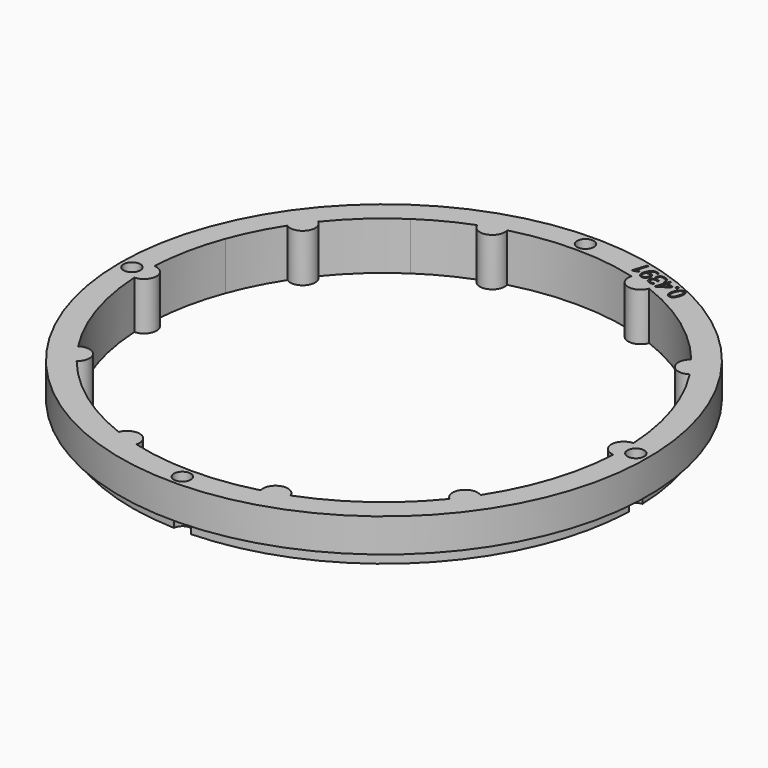
from build123d import *

# Parameters (mm, degrees)
SKETCH150_R             = 55
PAD057_DEPTH            = 10
POLARPATTERN017_COUNT   = 10
SKETCH151_R             = 55
SKETCH151_R_2           = 52.5
POCKET081_DEPTH         = 3
SKETCH152_R             = 1.75
POCKET082_DEPTH         = 321.770146
POCKET082_DEPTH_BACK    = 311.770146
POLARPATTERN018_COUNT   = 4
POCKET089_DEPTH         = 2
BODY009_ROLL_ANGLE      = 90
BODY009_PLACEMENT_ANGLE = -180


with BuildPart() as part:
    # Sketch150 → Pad057 (new body)
    with BuildSketch(Plane.XZ):
        Circle(SKETCH150_R)
        with BuildLine():
            ThreePointArc((49.93176, 2.611381), (-49.999999, -0.007775), (49.93257, -2.595852))
            ThreePointArc((49.93176, 2.611381), (47.395499, 0.00737), (49.93257, -2.595852))
        make_face(mode=Mode.SUBTRACT)
    pad057 = extrude(amount=PAD057_DEPTH)

    # PolarPattern017: Pad057 ×10 about axis
    polarpattern017_axis = Axis((0, 0, 0), (0, -1, 0))
    for i in range(1, POLARPATTERN017_COUNT):
        add(pad057.rotate(polarpattern017_axis, i * 360 / POLARPATTERN017_COUNT))

    # Sketch151 (on DatumPlane) → Pocket081 (cut)
    with BuildSketch(Plane.XZ.offset(10)):
        Circle(SKETCH151_R)
        Circle(SKETCH151_R_2, mode=Mode.SUBTRACT)
    extrude(amount=-POCKET081_DEPTH, mode=Mode.SUBTRACT)

    # Sketch152 (on DatumPlane) → Pocket082 (cut, two sides)
    with BuildSketch(Plane.XZ.offset(10)) as pocket082_sk:
        with Locations((52.5, 0)):
            Circle(SKETCH152_R)
    pocket082 = extrude(amount=-POCKET082_DEPTH, mode=Mode.SUBTRACT) + extrude(pocket082_sk.sketch, amount=POCKET082_DEPTH_BACK, mode=Mode.SUBTRACT)

    # PolarPattern018: Pocket082 ×4 about axis
    polarpattern018_axis = Axis((0, -10, 0), (0, -1, 0))
    for i in range(1, POLARPATTERN018_COUNT):
        add(pocket082.rotate(polarpattern018_axis, i * 360 / POLARPATTERN018_COUNT), mode=Mode.SUBTRACT)

    # Sketch165 (on Face2 of PolarPattern018) → Pocket089 (cut)
    with BuildSketch(Plane(origin=(0, 0, 0), x_dir=(1, 0, 0), z_dir=(0, 1, 0))):
        with BuildLine():
            add(Edge.make_bspline(
                [(-21.6255, -48.3529), (-21.7385, -48.7007), (-21.88, -48.9572)],
                knots=[0, 0, 0, 1, 1, 1], degree=2))
            add(Edge.make_bspline(
                [(-21.88, -48.9572), (-22.0215, -49.2135), (-22.1962, -49.3664)],
                knots=[0, 0, 0, 1, 1, 1], degree=2))
            add(Edge.make_bspline(
                [(-22.1962, -49.3664), (-22.3709, -49.5192), (-22.5823, -49.5595)],
                knots=[0, 0, 0, 1, 1, 1], degree=2))
            add(Edge.make_bspline(
                [(-22.5823, -49.5595), (-22.7937, -49.5999), (-23.0452, -49.5182)],
                knots=[0, 0, 0, 1, 1, 1], degree=2))
            add(Edge.make_bspline(
                [(-23.0452, -49.5182), (-23.363, -49.4149), (-23.5142, -49.1736)],
                knots=[0, 0, 0, 1, 1, 1], degree=2))
            add(Edge.make_bspline(
                [(-23.5142, -49.1736), (-23.6652, -48.9322), (-23.6607, -48.5697)],
                knots=[0, 0, 0, 1, 1, 1], degree=2))
            add(Edge.make_bspline(
                [(-23.6607, -48.5697), (-23.656, -48.2072), (-23.5049, -47.7422)],
                knots=[0, 0, 0, 1, 1, 1], degree=2))
            add(Edge.make_bspline(
                [(-23.5049, -47.7422), (-23.3564, -47.2851), (-23.1569, -46.9859)],
                knots=[0, 0, 0, 1, 1, 1], degree=2))
            add(Edge.make_bspline(
                [(-23.1569, -46.9859), (-22.9572, -46.6868), (-22.6931, -46.5772)],
                knots=[0, 0, 0, 1, 1, 1], degree=2))
            add(Edge.make_bspline(
                [(-22.6931, -46.5772), (-22.429, -46.4675), (-22.0898, -46.5777)],
                knots=[0, 0, 0, 1, 1, 1], degree=2))
            add(Edge.make_bspline(
                [(-22.0898, -46.5777), (-21.7681, -46.6822), (-21.6163, -46.9249)],
                knots=[0, 0, 0, 1, 1, 1], degree=2))
            add(Edge.make_bspline(
                [(-21.6163, -46.9249), (-21.4645, -47.1675), (-21.4701, -47.5297)],
                knots=[0, 0, 0, 1, 1, 1], degree=2))
            add(Edge.make_bspline(
                [(-21.4701, -47.5297), (-21.4757, -47.8918), (-21.6255, -48.3529)],
                knots=[0, 0, 0, 1, 1, 1], degree=2))
        make_face()
        with BuildLine():
            add(Edge.make_bspline(
                [(-23.1793, -47.848), (-23.3089, -48.2469), (-23.3349, -48.5324)],
                knots=[0, 0, 0, 1, 1, 1], degree=2))
            add(Edge.make_bspline(
                [(-23.3349, -48.5324), (-23.3608, -48.8179), (-23.2682, -48.9938)],
                knots=[0, 0, 0, 1, 1, 1], degree=2))
            add(Edge.make_bspline(
                [(-23.2682, -48.9938), (-23.1755, -49.1698), (-22.9552, -49.2414)],
                knots=[0, 0, 0, 1, 1, 1], degree=2))
            add(Edge.make_bspline(
                [(-22.9552, -49.2414), (-22.7349, -49.3129), (-22.557, -49.2261)],
                knots=[0, 0, 0, 1, 1, 1], degree=2))
            add(Edge.make_bspline(
                [(-22.557, -49.2261), (-22.3788, -49.1391), (-22.2311, -48.8932)],
                knots=[0, 0, 0, 1, 1, 1], degree=2))
            add(Edge.make_bspline(
                [(-22.2311, -48.8932), (-22.0833, -48.6473), (-21.953, -48.2464)],
                knots=[0, 0, 0, 1, 1, 1], degree=2))
            add(Edge.make_bspline(
                [(-21.953, -48.2464), (-21.8253, -47.8535), (-21.7998, -47.5691)],
                knots=[0, 0, 0, 1, 1, 1], degree=2))
            add(Edge.make_bspline(
                [(-21.7998, -47.5691), (-21.7741, -47.2846), (-21.8652, -47.107)],
                knots=[0, 0, 0, 1, 1, 1], degree=2))
            add(Edge.make_bspline(
                [(-21.8652, -47.107), (-21.9561, -46.9293), (-22.1803, -46.8565)],
                knots=[0, 0, 0, 1, 1, 1], degree=2))
            add(Edge.make_bspline(
                [(-22.1803, -46.8565), (-22.4045, -46.7836), (-22.5826, -46.8739)],
                knots=[0, 0, 0, 1, 1, 1], degree=2))
            add(Edge.make_bspline(
                [(-22.5826, -46.8739), (-22.7606, -46.9641), (-22.9062, -47.2096)],
                knots=[0, 0, 0, 1, 1, 1], degree=2))
            add(Edge.make_bspline(
                [(-22.9062, -47.2096), (-23.0516, -47.4551), (-23.1793, -47.848)],
                knots=[0, 0, 0, 1, 1, 1], degree=2))
        make_face(mode=Mode.SUBTRACT)
        with BuildLine():
            add(Edge.make_bspline(
                [(-21.5271, -49.7223), (-21.4828, -49.5859), (-21.3978, -49.5499)],
                knots=[0, 0, 0, 1, 1, 1], degree=2))
            add(Edge.make_bspline(
                [(-21.3978, -49.5499), (-21.3128, -49.5139), (-21.2173, -49.5449)],
                knots=[0, 0, 0, 1, 1, 1], degree=2))
            add(Edge.make_bspline(
                [(-21.2173, -49.5449), (-21.1179, -49.5772), (-21.0684, -49.657)],
                knots=[0, 0, 0, 1, 1, 1], degree=2))
            add(Edge.make_bspline(
                [(-21.0684, -49.657), (-21.0188, -49.7366), (-21.0631, -49.8731)],
                knots=[0, 0, 0, 1, 1, 1], degree=2))
            add(Edge.make_bspline(
                [(-21.0631, -49.8731), (-21.1068, -50.0076), (-21.1951, -50.0469)],
                knots=[0, 0, 0, 1, 1, 1], degree=2))
            add(Edge.make_bspline(
                [(-21.1951, -50.0469), (-21.2832, -50.0861), (-21.3827, -50.0538)],
                knots=[0, 0, 0, 1, 1, 1], degree=2))
            add(Edge.make_bspline(
                [(-21.3827, -50.0538), (-21.4782, -50.0227), (-21.5245, -49.9399)],
                knots=[0, 0, 0, 1, 1, 1], degree=2))
            add(Edge.make_bspline(
                [(-21.5245, -49.9399), (-21.5708, -49.8568), (-21.5271, -49.7223)],
                knots=[0, 0, 0, 1, 1, 1], degree=2))
        make_face()
        Polygon((-18.421789, -50.245626), (-18.848751, -50.106898), (-19.06227, -50.764042), (-19.378104, -50.661421), (-19.164585, -50.004277), (-20.54295, -49.556419), (-20.454265, -49.283476), (-18.472499, -47.801283), (-18.135219, -47.910872), (-18.753731, -49.814459), (-18.32677, -49.953187), align=None)
        with BuildLine():
            Line((-19.069566, -49.711838), (-18.7685, -48.7853))
            add(Edge.make_bspline(
                [(-18.7685, -48.7853), (-18.7339, -48.6787), (-18.7039, -48.593)],
                knots=[0, 0, 0, 1, 1, 1], degree=2))
            add(Edge.make_bspline(
                [(-18.7039, -48.593), (-18.6739, -48.5073), (-18.6458, -48.434)],
                knots=[0, 0, 0, 1, 1, 1], degree=2))
            add(Edge.make_bspline(
                [(-18.6458, -48.434), (-18.6176, -48.3607), (-18.5927, -48.2938)],
                knots=[0, 0, 0, 1, 1, 1], degree=2))
            add(Edge.make_bspline(
                [(-18.5927, -48.2938), (-18.5677, -48.2269), (-18.544314, -48.161614)],
                knots=[0, 0, 0, 1, 1, 1], degree=2))
            Line((-18.544314, -48.161614), (-18.5599, -48.1565))
            add(Edge.make_bspline(
                [(-18.5599, -48.1565), (-18.6222, -48.2221), (-18.698, -48.2929)],
                knots=[0, 0, 0, 1, 1, 1], degree=2))
            add(Edge.make_bspline(
                [(-18.698, -48.2929), (-18.7737, -48.3635), (-18.84452, -48.415549)],
                knots=[0, 0, 0, 1, 1, 1], degree=2))
            Line((-18.84452, -48.415549), (-20.126247, -49.368501))
            Line((-20.126247, -49.368501), (-19.069566, -49.711838))
        make_face(mode=Mode.SUBTRACT)
        with BuildLine():
            add(Edge.make_bspline(
                [(-15.8931, -49.376), (-15.9556, -49.5682), (-16.0755, -49.6853)],
                knots=[0, 0, 0, 1, 1, 1], degree=2))
            add(Edge.make_bspline(
                [(-16.0755, -49.6853), (-16.1955, -49.8023), (-16.3571, -49.8486)],
                knots=[0, 0, 0, 1, 1, 1], degree=2))
            add(Edge.make_bspline(
                [(-16.3571, -49.8486), (-16.5186, -49.8946), (-16.709455, -49.871718)],
                knots=[0, 0, 0, 1, 1, 1], degree=2))
            Line((-16.709455, -49.871718), (-16.7145, -49.8873))
            add(Edge.make_bspline(
                [(-16.7145, -49.8873), (-16.3892, -50.0404), (-16.2758, -50.2716)],
                knots=[0, 0, 0, 1, 1, 1], degree=2))
            add(Edge.make_bspline(
                [(-16.2758, -50.2716), (-16.1622, -50.5027), (-16.2549, -50.7878)],
                knots=[0, 0, 0, 1, 1, 1], degree=2))
            add(Edge.make_bspline(
                [(-16.2549, -50.7878), (-16.3354, -51.0358), (-16.5137, -51.1894)],
                knots=[0, 0, 0, 1, 1, 1], degree=2))
            add(Edge.make_bspline(
                [(-16.5137, -51.1894), (-16.6918, -51.343), (-16.9659, -51.3738)],
                knots=[0, 0, 0, 1, 1, 1], degree=2))
            add(Edge.make_bspline(
                [(-16.9659, -51.3738), (-17.2398, -51.4045), (-17.6122, -51.2835)],
                knots=[0, 0, 0, 1, 1, 1], degree=2))
            add(Edge.make_bspline(
                [(-17.6122, -51.2835), (-17.8383, -51.21), (-18.0187, -51.1115)],
                knots=[0, 0, 0, 1, 1, 1], degree=2))
            add(Edge.make_bspline(
                [(-18.0187, -51.1115), (-18.199, -51.0131), (-18.347193, -50.872232)],
                knots=[0, 0, 0, 1, 1, 1], degree=2))
            Line((-18.347193, -50.872232), (-18.2484, -50.5681))
            add(Edge.make_bspline(
                [(-18.2484, -50.5681), (-18.0995, -50.7135), (-17.907, -50.831)],
                knots=[0, 0, 0, 1, 1, 1], degree=2))
            add(Edge.make_bspline(
                [(-17.907, -50.831), (-17.7146, -50.9485), (-17.5196, -51.0118)],
                knots=[0, 0, 0, 1, 1, 1], degree=2))
            add(Edge.make_bspline(
                [(-17.5196, -51.0118), (-17.1297, -51.1385), (-16.9057, -51.0396)],
                knots=[0, 0, 0, 1, 1, 1], degree=2))
            add(Edge.make_bspline(
                [(-16.9057, -51.0396), (-16.6817, -50.9406), (-16.5942, -50.6712)],
                knots=[0, 0, 0, 1, 1, 1], degree=2))
            add(Edge.make_bspline(
                [(-16.5942, -50.6712), (-16.5339, -50.4856), (-16.5933, -50.34)],
                knots=[0, 0, 0, 1, 1, 1], degree=2))
            add(Edge.make_bspline(
                [(-16.5933, -50.34), (-16.6526, -50.1944), (-16.8156, -50.0821)],
                knots=[0, 0, 0, 1, 1, 1], degree=2))
            add(Edge.make_bspline(
                [(-16.8156, -50.0821), (-16.9784, -49.9697), (-17.231835, -49.887352)],
                knots=[0, 0, 0, 1, 1, 1], degree=2))
            Line((-17.231835, -49.887352), (-17.516477, -49.794867))
            Line((-17.516477, -49.794867), (-17.426525, -49.518024))
            Line((-17.426525, -49.518024), (-17.1399, -49.6111))
            add(Edge.make_bspline(
                [(-17.1399, -49.6111), (-16.9079, -49.6865), (-16.7238, -49.6703)],
                knots=[0, 0, 0, 1, 1, 1], degree=2))
            add(Edge.make_bspline(
                [(-16.7238, -49.6703), (-16.5396, -49.654), (-16.4143, -49.5568)],
                knots=[0, 0, 0, 1, 1, 1], degree=2))
            add(Edge.make_bspline(
                [(-16.4143, -49.5568), (-16.2889, -49.4596), (-16.2333, -49.2886)],
                knots=[0, 0, 0, 1, 1, 1], degree=2))
            add(Edge.make_bspline(
                [(-16.2333, -49.2886), (-16.1624, -49.0705), (-16.2681, -48.9047)],
                knots=[0, 0, 0, 1, 1, 1], degree=2))
            add(Edge.make_bspline(
                [(-16.2681, -48.9047), (-16.3737, -48.7389), (-16.6213, -48.6584)],
                knots=[0, 0, 0, 1, 1, 1], degree=2))
            add(Edge.make_bspline(
                [(-16.6213, -48.6584), (-16.7734, -48.609), (-16.9083, -48.5997)],
                knots=[0, 0, 0, 1, 1, 1], degree=2))
            add(Edge.make_bspline(
                [(-16.9083, -48.5997), (-17.0432, -48.5903), (-17.1701, -48.6094)],
                knots=[0, 0, 0, 1, 1, 1], degree=2))
            add(Edge.make_bspline(
                [(-17.1701, -48.6094), (-17.297, -48.6285), (-17.429628, -48.665193)],
                knots=[0, 0, 0, 1, 1, 1], degree=2))
            Line((-17.429628, -48.665193), (-17.5212, -48.3897))
            add(Edge.make_bspline(
                [(-17.5212, -48.3897), (-17.3259, -48.3195), (-17.0732, -48.3046)],
                knots=[0, 0, 0, 1, 1, 1], degree=2))
            add(Edge.make_bspline(
                [(-17.0732, -48.3046), (-16.8205, -48.2898), (-16.5359, -48.3822)],
                knots=[0, 0, 0, 1, 1, 1], degree=2))
            add(Edge.make_bspline(
                [(-16.5359, -48.3822), (-16.0992, -48.5241), (-15.9458, -48.7951)],
                knots=[0, 0, 0, 1, 1, 1], degree=2))
            add(Edge.make_bspline(
                [(-15.9458, -48.7951), (-15.7924, -49.0661), (-15.8931, -49.376)],
                knots=[0, 0, 0, 1, 1, 1], degree=2))
        make_face()
        with BuildLine():
            add(Edge.make_bspline(
                [(-13.6832, -50.7011), (-13.7677, -50.9612), (-13.8839, -51.1959)],
                knots=[0, 0, 0, 1, 1, 1], degree=2))
            add(Edge.make_bspline(
                [(-13.8839, -51.1959), (-13.9999, -51.4305), (-14.156, -51.6154)],
                knots=[0, 0, 0, 1, 1, 1], degree=2))
            add(Edge.make_bspline(
                [(-14.156, -51.6154), (-14.3119, -51.8003), (-14.5122, -51.9125)],
                knots=[0, 0, 0, 1, 1, 1], degree=2))
            add(Edge.make_bspline(
                [(-14.5122, -51.9125), (-14.7124, -52.0246), (-14.9653, -52.0431)],
                knots=[0, 0, 0, 1, 1, 1], degree=2))
            add(Edge.make_bspline(
                [(-14.9653, -52.0431), (-15.2179, -52.0614), (-15.5279, -51.9607)],
                knots=[0, 0, 0, 1, 1, 1], degree=2))
            add(Edge.make_bspline(
                [(-15.5279, -51.9607), (-15.6118, -51.9335), (-15.7155, -51.8878)],
                knots=[0, 0, 0, 1, 1, 1], degree=2))
            add(Edge.make_bspline(
                [(-15.7155, -51.8878), (-15.8193, -51.8423), (-15.881155, -51.800666)],
                knots=[0, 0, 0, 1, 1, 1], degree=2))
            Line((-15.881155, -51.800666), (-15.7899, -51.5199))
            add(Edge.make_bspline(
                [(-15.7899, -51.5199), (-15.726, -51.5687), (-15.6333, -51.6151)],
                knots=[0, 0, 0, 1, 1, 1], degree=2))
            add(Edge.make_bspline(
                [(-15.6333, -51.6151), (-15.5406, -51.6613), (-15.447, -51.6917)],
                knots=[0, 0, 0, 1, 1, 1], degree=2))
            add(Edge.make_bspline(
                [(-15.447, -51.6917), (-15.0824, -51.8102), (-14.8226, -51.7203)],
                knots=[0, 0, 0, 1, 1, 1], degree=2))
            add(Edge.make_bspline(
                [(-14.8226, -51.7203), (-14.5628, -51.6304), (-14.383, -51.3889)],
                knots=[0, 0, 0, 1, 1, 1], degree=2))
            add(Edge.make_bspline(
                [(-14.383, -51.3889), (-14.2032, -51.1474), (-14.081431, -50.812406)],
                knots=[0, 0, 0, 1, 1, 1], degree=2))
            Line((-14.081431, -50.812406), (-14.1048, -50.8048))
            add(Edge.make_bspline(
                [(-14.1048, -50.8048), (-14.1937, -50.8794), (-14.314, -50.9277)],
                knots=[0, 0, 0, 1, 1, 1], degree=2))
            add(Edge.make_bspline(
                [(-14.314, -50.9277), (-14.4341, -50.9759), (-14.5842, -50.98)],
                knots=[0, 0, 0, 1, 1, 1], degree=2))
            add(Edge.make_bspline(
                [(-14.5842, -50.98), (-14.7342, -50.984), (-14.9136, -50.9257)],
                knots=[0, 0, 0, 1, 1, 1], degree=2))
            add(Edge.make_bspline(
                [(-14.9136, -50.9257), (-15.1612, -50.8452), (-15.3125, -50.6838)],
                knots=[0, 0, 0, 1, 1, 1], degree=2))
            add(Edge.make_bspline(
                [(-15.3125, -50.6838), (-15.4637, -50.5225), (-15.5033, -50.2959)],
                knots=[0, 0, 0, 1, 1, 1], degree=2))
            add(Edge.make_bspline(
                [(-15.5033, -50.2959), (-15.5428, -50.0693), (-15.454, -49.796)],
                knots=[0, 0, 0, 1, 1, 1], degree=2))
            add(Edge.make_bspline(
                [(-15.454, -49.796), (-15.3581, -49.5011), (-15.176, -49.3217)],
                knots=[0, 0, 0, 1, 1, 1], degree=2))
            add(Edge.make_bspline(
                [(-15.176, -49.3217), (-14.9937, -49.1424), (-14.7529, -49.0912)],
                knots=[0, 0, 0, 1, 1, 1], degree=2))
            add(Edge.make_bspline(
                [(-14.7529, -49.0912), (-14.5121, -49.0398), (-14.2372, -49.1291)],
                knots=[0, 0, 0, 1, 1, 1], degree=2))
            add(Edge.make_bspline(
                [(-14.2372, -49.1291), (-14.0266, -49.1976), (-13.8772, -49.3348)],
                knots=[0, 0, 0, 1, 1, 1], degree=2))
            add(Edge.make_bspline(
                [(-13.8772, -49.3348), (-13.7278, -49.4718), (-13.65, -49.6733)],
                knots=[0, 0, 0, 1, 1, 1], degree=2))
            add(Edge.make_bspline(
                [(-13.65, -49.6733), (-13.572, -49.8748), (-13.5772, -50.1326)],
                knots=[0, 0, 0, 1, 1, 1], degree=2))
            add(Edge.make_bspline(
                [(-13.5772, -50.1326), (-13.5822, -50.3904), (-13.6832, -50.7011)],
                knots=[0, 0, 0, 1, 1, 1], degree=2))
        make_face()
        with BuildLine():
            add(Edge.make_bspline(
                [(-14.3265, -49.404), (-14.5858, -49.3198), (-14.8019, -49.4375)],
                knots=[0, 0, 0, 1, 1, 1], degree=2))
            add(Edge.make_bspline(
                [(-14.8019, -49.4375), (-15.0179, -49.5553), (-15.1291, -49.8972)],
                knots=[0, 0, 0, 1, 1, 1], degree=2))
            add(Edge.make_bspline(
                [(-15.1291, -49.8972), (-15.2211, -50.1804), (-15.136, -50.3896)],
                knots=[0, 0, 0, 1, 1, 1], degree=2))
            add(Edge.make_bspline(
                [(-15.136, -50.3896), (-15.0509, -50.5987), (-14.7624, -50.6925)],
                knots=[0, 0, 0, 1, 1, 1], degree=2))
            add(Edge.make_bspline(
                [(-14.7624, -50.6925), (-14.5635, -50.7571), (-14.3923, -50.7242)],
                knots=[0, 0, 0, 1, 1, 1], degree=2))
            add(Edge.make_bspline(
                [(-14.3923, -50.7242), (-14.2209, -50.6912), (-14.1021, -50.5938)],
                knots=[0, 0, 0, 1, 1, 1], degree=2))
            add(Edge.make_bspline(
                [(-14.1021, -50.5938), (-13.983, -50.4963), (-13.9412, -50.3674)],
                knots=[0, 0, 0, 1, 1, 1], degree=2))
            add(Edge.make_bspline(
                [(-13.9412, -50.3674), (-13.8993, -50.2385), (-13.8942, -50.0933)],
                knots=[0, 0, 0, 1, 1, 1], degree=2))
            add(Edge.make_bspline(
                [(-13.8942, -50.0933), (-13.8889, -49.948), (-13.9304, -49.8103)],
                knots=[0, 0, 0, 1, 1, 1], degree=2))
            add(Edge.make_bspline(
                [(-13.9304, -49.8103), (-13.9719, -49.6726), (-14.0683, -49.5647)],
                knots=[0, 0, 0, 1, 1, 1], degree=2))
            add(Edge.make_bspline(
                [(-14.0683, -49.5647), (-14.1647, -49.4566), (-14.3265, -49.404)],
                knots=[0, 0, 0, 1, 1, 1], degree=2))
        make_face(mode=Mode.SUBTRACT)
        with BuildLine():
            Line((-12.602866, -52.862829), (-12.918701, -52.760208))
            Line((-12.918701, -52.760208), (-12.2617, -50.7381))
            add(Edge.make_bspline(
                [(-12.2617, -50.7381), (-12.2243, -50.6229), (-12.1964, -50.5403)],
                knots=[0, 0, 0, 1, 1, 1], degree=2))
            add(Edge.make_bspline(
                [(-12.1964, -50.5403), (-12.1684, -50.4577), (-12.1431, -50.3894)],
                knots=[0, 0, 0, 1, 1, 1], degree=2))
            add(Edge.make_bspline(
                [(-12.1431, -50.3894), (-12.1176, -50.3211), (-12.0882, -50.2507)],
                knots=[0, 0, 0, 1, 1, 1], degree=2))
            add(Edge.make_bspline(
                [(-12.0882, -50.2507), (-12.1689, -50.2935), (-12.2358, -50.3203)],
                knots=[0, 0, 0, 1, 1, 1], degree=2))
            add(Edge.make_bspline(
                [(-12.2358, -50.3203), (-12.3028, -50.3471), (-12.401648, -50.386106)],
                knots=[0, 0, 0, 1, 1, 1], degree=2))
            Line((-12.401648, -50.386106), (-12.812157, -50.541693))
            Line((-12.812157, -50.541693), (-12.910191, -50.266278))
            Line((-12.910191, -50.266278), (-11.94486, -49.922242))
            Line((-11.94486, -49.922242), (-11.675815, -50.00966))
            Line((-11.675815, -50.00966), (-12.602866, -52.862829))
        make_face()
    extrude(amount=-POCKET089_DEPTH, mode=Mode.SUBTRACT)


with BuildPart() as part_1:
    # Body009 roll: moved
    add(part.part.rotate(Axis((0, 0, 0), (1, 0, 0)), BODY009_ROLL_ANGLE))


with BuildPart() as part_2:
    # Body009 placement: moved
    add(part_1.part.moved(Location((-1.52, 0, 128))).rotate(Axis((-1.52, 0, 128), (0, 0, 1)), BODY009_PLACEMENT_ANGLE))


solid = part_2.part
